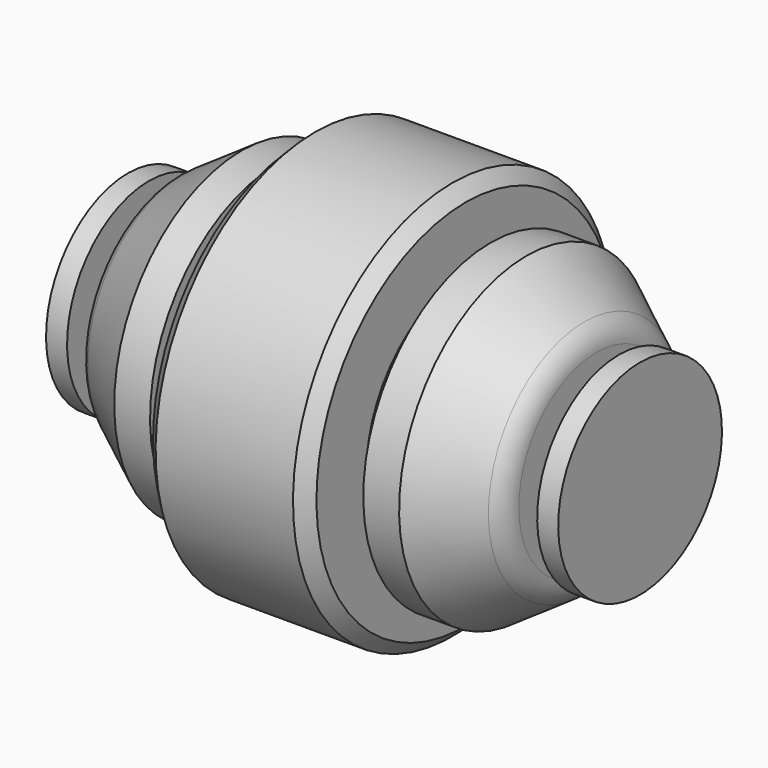
from build123d import *

# Parameters (mm, degrees)
F2_R    = 10.614455
F3_SIZE = 5


with BuildPart() as f1:
    # F0 (on Front) → F1 (revolve)
    with BuildSketch(Plane.XZ):
        Polygon((-98.246373, 0), (0, 0), (0, 76.596335), (-31.355228, 76.596335), (-31.355228, 47.630079), (-40.911108, 47.630079), (-40.911108, 61.068039), (-54.647684, 61.068039), (-81.52359, 42.852145), (-81.52359, 20.156933), (-90.183608, 20.156933), (-90.183608, 39.268687), (-98.246373, 39.268687), align=None)
    revolve(axis=Axis((-49.123187, 0, 0), (-1, 0, 0)))

    # F2
    f2_edges = [f1.edges().sort_by_distance(p)[0] for p in [
        (-81.52359, 0, -42.852145),
    ]]
    fillet(f2_edges, radius=F2_R)

    # F3
    f3_edges = [f1.edges().sort_by_distance(p)[0] for p in [
        (-31.355228, 0, -76.596335),
    ]]
    chamfer(f3_edges, length=F3_SIZE)

    # F4: F1 across face


with BuildPart() as f1_1:
    add(f1.part)
    add(f1.part.mirror(Plane.YZ))

    # F5: F1 across plane


with BuildPart() as f1_2:
    add(f1_1.part)
    add(f1_1.part.mirror(Plane.YZ))


solid = f1_2.part
